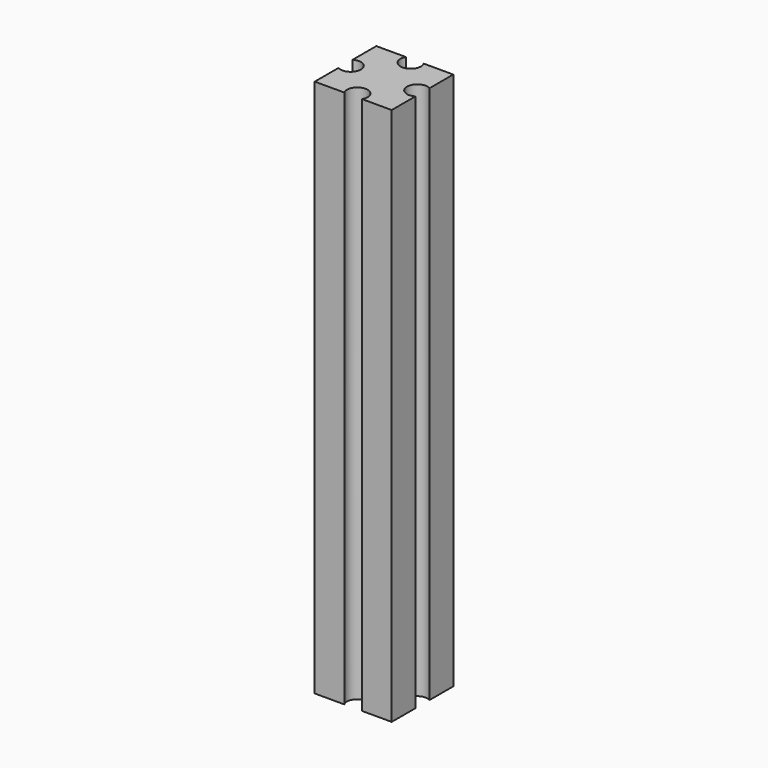
from build123d import *

# Parameters (mm, degrees)
F0_W     = 15
F0_H     = 15
F1_DEPTH = 105
F3_DEPTH = 105
F5_DEPTH = 105
F7_DEPTH = 105


with BuildPart() as f1:
    # F0 (on Top) → F1 (new body)
    with BuildSketch(Plane.XY):
        with Locations((-3.8708411157, 2.5643814198)):
            Rectangle(F0_W, F0_H)
    extrude(amount=F1_DEPTH)

    # F2 (on face) → F3 (cut)
    with BuildSketch(Plane.XY.offset(105)):
        with BuildLine():
            ThreePointArc((-11.3708411157, 0.8323306122), (-9.3708411157, 0.8323306122), (-8.3708411157, 2.5643814198))
            ThreePointArc((-8.3708411157, 2.5643814198), (-9.3708411157, 4.2964322274), (-11.3708411157, 4.2964322274))
            Line((-11.3708411157, 4.2964322274), (-11.3708411157, 0.8323306122))
        make_face()
    extrude(amount=-F3_DEPTH, mode=Mode.SUBTRACT)

    # F4 (on face) → F5 (cut)
    with BuildSketch(Plane.XY.offset(105)):
        with BuildLine():
            ThreePointArc((-5.6028919233, 10.0643814198), (-4.3884792059, 7.1325297672), (-1.8708411157, 9.0643814198))
            ThreePointArc((-1.8708411157, 9.0643814198), (-1.9389894631, 9.58201951), (-2.1387903081, 10.0643814198))
            Line((-2.1387903081, 10.0643814198), (-5.6028919233, 10.0643814198))
        make_face()
    extrude(amount=-F5_DEPTH, mode=Mode.SUBTRACT)

    # F6 (on face) → F7 (cut)
    with BuildSketch(Plane.XY.offset(105)):
        with BuildLine():
            Line((-5.6028919233, -4.9356185802), (-2.1387903081, -4.9356185802))
            ThreePointArc((-2.1387903081, -4.9356185802), (-1.9389894631, -4.4532566704), (-1.8708411157, -3.9356185802))
            ThreePointArc((-1.8708411157, -3.9356185802), (-4.3884792059, -2.0037669276), (-5.6028919233, -4.9356185802))
        make_face()
        with BuildLine():
            Line((3.6291588843, 0.8323306122), (3.6291588843, 4.2964322274))
            ThreePointArc((3.6291588843, 4.2964322274), (0.6291588843, 2.5643814198), (3.6291588843, 0.8323306122))
        make_face()
    extrude(amount=-F7_DEPTH, mode=Mode.SUBTRACT)


solid = f1.part
